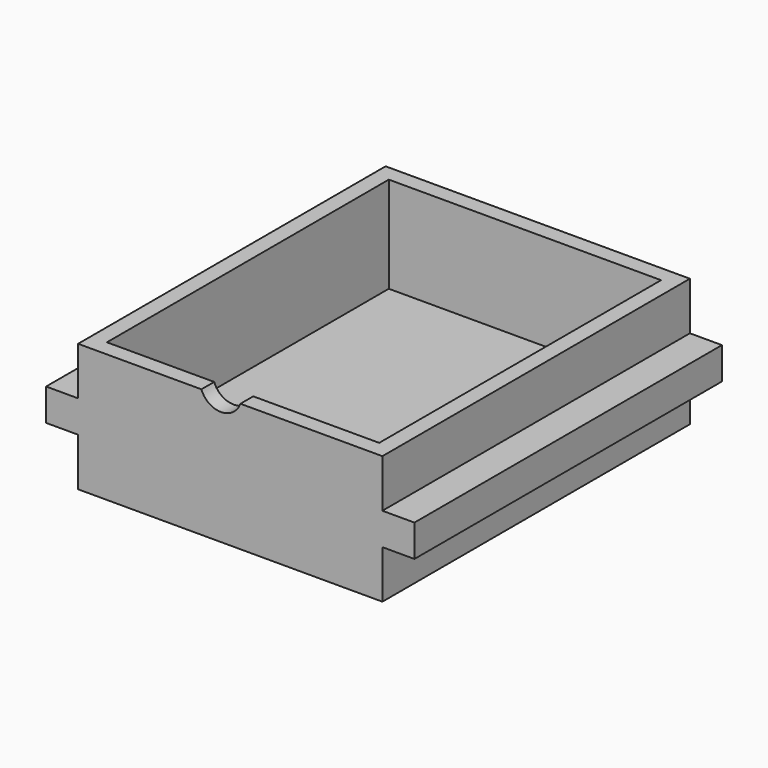
from build123d import *

# Parameters (mm, degrees)
F0_W     = 12.7
F0_H     = 12.7
F1_DEPTH = 152.4
F2_W     = 107.95
F2_H     = 139.7
F3_DEPTH = 38.1
F5_DEPTH = 6.35


with BuildPart() as f1:
    # F0 (on Front) → F1 (new body)
    with BuildSketch(Plane.XZ):
        Polygon((56.291819, 19.05), (-64.358181, 19.05), (-64.358181, 0), (-64.358181, -12.7), (-64.358181, -31.75), (56.291819, -31.75), (56.291819, -12.7), (56.291819, 0), align=None)
        with Locations((-70.708181, -6.35)):
            Rectangle(F0_W, F0_H)
        with Locations((62.641819, -6.35)):
            Rectangle(F0_W, F0_H)
    extrude(amount=F1_DEPTH)

    # F2 (on face) → F3 (cut)
    with BuildSketch(Plane.XY.offset(19.05)):
        with Locations((-4.033181, -76.2)):
            Rectangle(F2_W, F2_H)
    extrude(amount=-F3_DEPTH, mode=Mode.SUBTRACT)

    # F4 (on face) → F5 (cut)
    with BuildSketch(Plane.XZ.offset(152.4)):
        with BuildLine():
            Line((0, 19.05), (-15.476204, 19.05))
            ThreePointArc((-15.476204, 19.05), (-7.738102, 13.646425), (0, 19.05))
        make_face()
    extrude(amount=-F5_DEPTH, mode=Mode.SUBTRACT)


solid = f1.part
